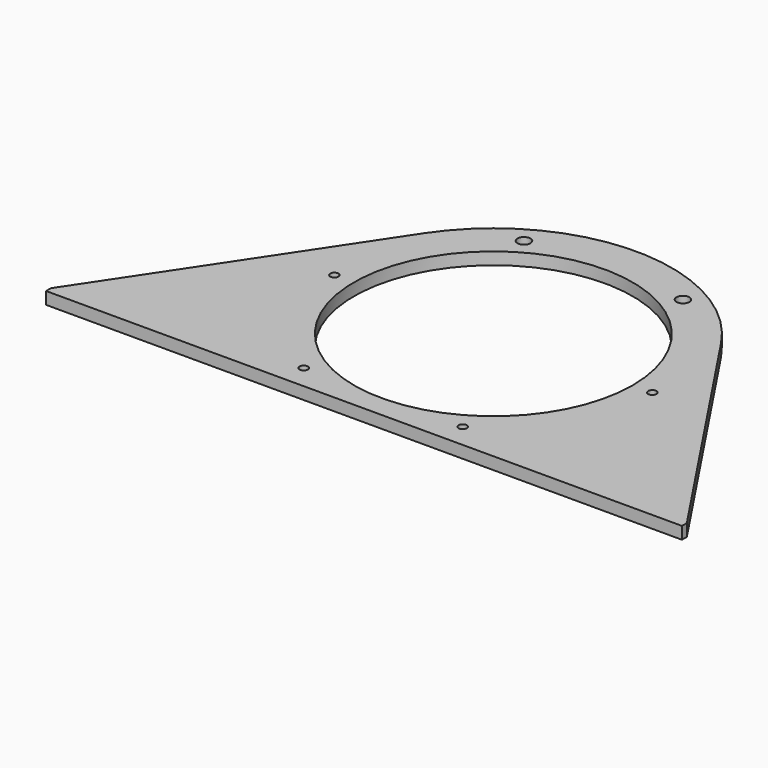
from build123d import *

# Parameters (mm, degrees)
F0_R     = 2.15265
F0_R_2   = 72.39
F0_R_3   = 3.3655
F1_DEPTH = 6.35


with BuildPart() as f1:
    # F0 (on Top) → F1 (new body)
    with BuildSketch(Plane.XY):
        with BuildLine():
            Line((0, 3.175), (0, 0))
            Line((0, 0), (330.2, 0))
            Line((330.2, 0), (330.2, 3.175))
            Line((330.2, 3.175), (242.28583, 135.304837))
            ThreePointArc((242.28583, 135.304837), (165.1, 176.658321), (87.91417, 135.304837))
            Line((87.91417, 135.304837), (0, 3.175))
        make_face()
        with Locations((123.825, 12.457924)):
            Circle(F0_R, mode=Mode.SUBTRACT)
        with Locations((82.55, 83.948321)):
            Circle(F0_R, mode=Mode.SUBTRACT)
        with Locations((206.375, 12.457924)):
            Circle(F0_R, mode=Mode.SUBTRACT)
        with Locations((165.1, 83.948321)):
            Circle(F0_R_2, mode=Mode.SUBTRACT)
        with Locations((247.65, 83.948321)):
            Circle(F0_R, mode=Mode.SUBTRACT)
        with Locations((123.825, 155.438718)):
            Circle(F0_R_3, mode=Mode.SUBTRACT)
        with Locations((206.375, 155.438718)):
            Circle(F0_R_3, mode=Mode.SUBTRACT)
    extrude(amount=F1_DEPTH)


solid = f1.part
